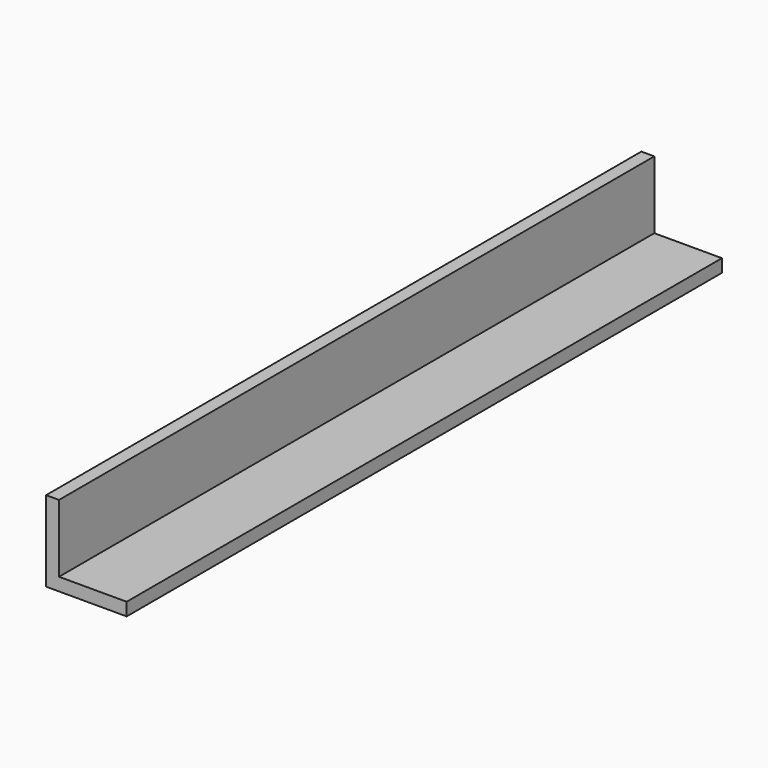
from build123d import *

# Parameters (mm, degrees)
F0_W     = 9.53
F0_H     = 9.53
F1_DEPTH = 88
F2_T     = -1.53
F3_W     = 8
F3_H     = 1.53
F4_DEPTH = 88.001


with BuildPart() as f1:
    # F0 (on Front) → F1 (new body)
    with BuildSketch(Plane.XZ):
        with Locations((4.765, 4.765)):
            Rectangle(F0_W, F0_H)
    extrude(amount=F1_DEPTH)

    # F2
    f2_openings = [f1.faces().sort_by_distance(p)[0] for p in [
        (9.53, -44, 4.765),
        (4.765, -88, 4.765),
        (4.765, 0, 4.765),
    ]]
    offset(amount=F2_T, openings=f2_openings)

    # F3 (on Front) → F4 (cut, through all)
    with BuildSketch(Plane.XZ):
        with Locations((5.53, 8.765)):
            Rectangle(F3_W, F3_H)
    extrude(amount=F4_DEPTH, mode=Mode.SUBTRACT)


solid = f1.part
